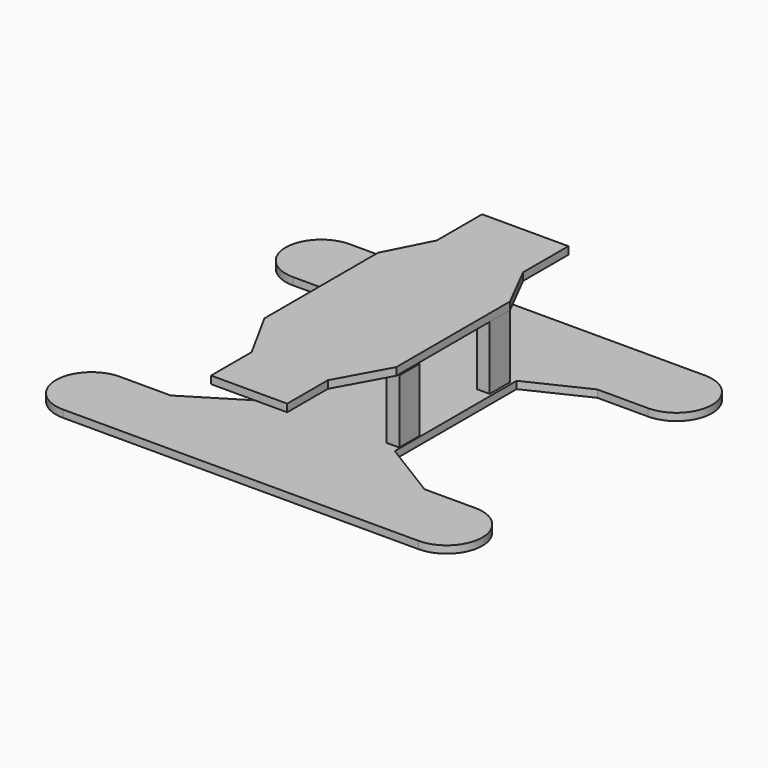
from build123d import *

# Parameters (mm, degrees)
F1_DEPTH = 2.9
F4_DEPTH = 3
F5_W     = 10
F5_H     = 25
F6_DEPTH = 5


with BuildPart() as f1:
    # F0 (on Top) → F1 (new body)
    with BuildSketch(Plane.XY):
        with BuildLine():
            Line((70, 69), (-70, 69))
            ThreePointArc((-70, 69), (-84, 55), (-70, 41))
            Line((-70, 41), (-50, 41))
            Line((-50, 41), (-27, 30))
            Line((-27, 30), (-27, -30))
            Line((-27, -30), (-50, -44.1370849898))
            Line((-50, -44.1370849898), (-70, -44.1370849898))
            ThreePointArc((-70, -44.1370849898), (-84, -58.1370849898), (-70, -72.1370849898))
            Line((-70, -72.1370849898), (70, -72.1370849898))
            ThreePointArc((70, -72.1370849898), (84, -58.1370849898), (70, -44.1370849898))
            Line((70, -44.1370849898), (50, -44.1370849898))
            Line((50, -44.1370849898), (27, -30))
            Line((27, -30), (27, 30))
            Line((27, 30), (50, 41))
            Line((50, 41), (70, 41))
            ThreePointArc((70, 41), (84, 55), (70, 69))
        make_face()
    extrude(amount=F1_DEPTH)


with BuildPart() as f4:
    # F3 (on offset) → F4 (new body)
    with BuildSketch(Plane.XY.offset(27.9)):
        Polygon((-17, 45.6853359938), (-26, 28), (-26, -28), (-15, -48), (-15, -68), (15, -68), (15, -48), (26, -28), (26, 28), (17, 45.6853359938), (17, 68), (-17, 68), align=None)
    extrude(amount=F4_DEPTH)


with BuildPart() as f6:
    # F5 (on face) → F6 (new body)
    with BuildSketch(Plane(origin=(-26, 0, 0), x_dir=(0, -1, 0), z_dir=(-1, 0, 0))):
        with Locations((-23, 15.4)):
            Rectangle(F5_W, F5_H)
    extrude(amount=-F6_DEPTH)


with BuildPart() as f7_1:
    # F7: copy of F6
    add(f6.part.moved(Location((0, -45.3, 0))))


with BuildPart() as f8_1:
    # F8: copy of F7_1
    add(f7_1.part.moved(Location((47.6, 0, 0))))


with BuildPart() as f9_1:
    # F9: copy of F6
    add(f6.part.moved(Location((47, 0, 0))))


solid = Compound([f1.part, f4.part, f6.part, f7_1.part, f8_1.part, f9_1.part])
